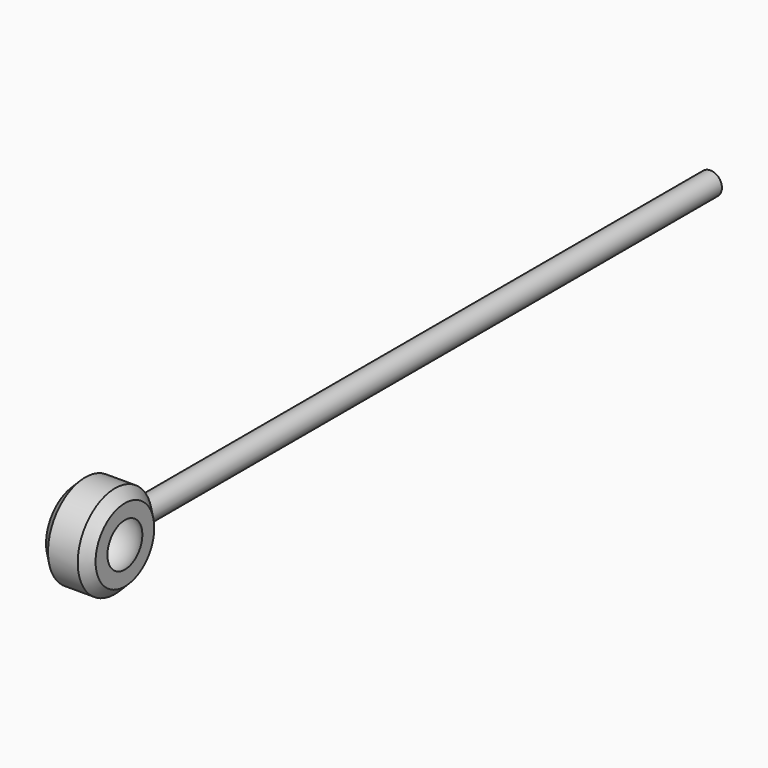
from build123d import *

# Parameters (mm, degrees)
F3_R     = 8.8335869627
F4_DEPTH = 558.8
F5_SIZE  = 7.62
F6_ANGLE = 90


with BuildPart() as f1:
    # F0 (on Right) → F1 (revolve)
    with BuildSketch(Plane.YZ):
        with BuildLine():
            Line((0, -19.05), (0, 0))
            Line((0, 0), (0, 19.05))
            Line((0, 19.05), (-19.05, 19.05))
            ThreePointArc((-19.05, 19.05), (-10.4505208253, 0), (-19.05, -19.05))
            Line((-19.05, -19.05), (0, -19.05))
        make_face()
    revolve(axis=Axis((0, -35.8505208253, 12.1182259172), (0, 0, 1)))

    # F3 (on offset) → F4 (join)
    with BuildSketch(Plane.XZ.offset(7.62)):
        Circle(F3_R)
    extrude(amount=-F4_DEPTH)

    # F5
    f5_edges = [f1.edges().sort_by_distance(p)[0] for p in [
        (0, -71.701042, 19.05),
        (0, -71.701042, -19.05),
    ]]
    chamfer(f5_edges, length=F5_SIZE)


with BuildPart() as f1_1:
    # F6: moved
    add(f1.part.rotate(Axis((0, -7.62, 0), (0, -1, 0)), F6_ANGLE))


solid = f1_1.part
